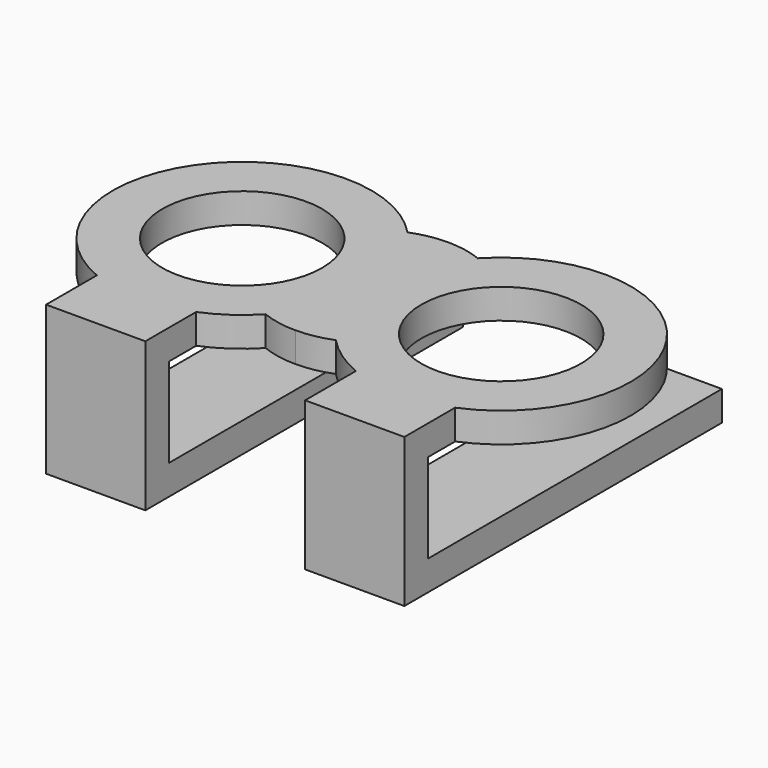
from build123d import *

# Parameters (mm, degrees)
F0_R     = 8.05
F1_DEPTH = 3
F2_W     = 10
F2_H     = 3
F3_DEPTH = 3
F4_DEPTH = 9
F5_W     = 10
F5_H     = 3
F6_DEPTH = 40


with BuildPart() as f1:
    # F0 (on Top) → F1 (new body)
    with BuildSketch(Plane.XY):
        with BuildLine():
            ThreePointArc((-3.5381985419, -8.9346590881), (-0.9167500432, -4.8048668541), (0, 0))
            ThreePointArc((0, 0), (-0.9167500432, 4.8048668541), (-3.5381985419, 8.9346590881))
            ThreePointArc((-3.5381985419, 8.9346590881), (-26.1, 0), (-3.5381985419, -8.9346590881))
        make_face()
        with Locations((-13.05, 0)):
            Circle(F0_R, mode=Mode.SUBTRACT)
        with BuildLine():
            Line((0, -9.6097337082), (0, 0))
            ThreePointArc((0, 0), (-0.9167500432, -4.8048668541), (-3.5381985419, -8.9346590881))
            ThreePointArc((-3.5381985419, -8.9346590881), (-1.8010118451, -9.4394564609), (0, -9.6097337082))
        make_face()
        with BuildLine():
            ThreePointArc((-3.5381985419, 8.9346590881), (-0.9167500432, 4.8048668541), (0, 0))
            Line((0, 0), (0, 9.6097337082))
            ThreePointArc((0, 9.6097337082), (-1.8010118451, 9.4394564609), (-3.5381985419, 8.9346590881))
        make_face()
    extrude(amount=F1_DEPTH)

    # F2 (on face) → F3 (join, through all)
    with BuildSketch(Plane(origin=(0, 0, 0), x_dir=(1, 0, 0), z_dir=(0, 0, -1))):
        with BuildLine():
            ThreePointArc((-18.05, 12.0541486634), (-13.05, 13.05), (-8.05, 12.0541486634))
            Line((-8.05, 12.0541486634), (-8.05, 15.45))
            Line((-8.05, 15.45), (-18.05, 15.45))
            Line((-18.05, 15.45), (-18.05, 12.0541486634))
        make_face()
        with Locations((-13.05, 16.95)):
            Rectangle(F2_W, F2_H)
    extrude(amount=-F3_DEPTH)

    # F2 (on face) → F4 (join)
    with BuildSketch(Plane(origin=(0, 0, 0), x_dir=(1, 0, 0), z_dir=(0, 0, -1))):
        with Locations((-13.05, 16.95)):
            Rectangle(F2_W, F2_H)
    extrude(amount=F4_DEPTH)

    # F5 (on face) → F6 (join)
    with BuildSketch(Plane.XZ.offset(18.45)):
        with Locations((-13.05, -10.5)):
            Rectangle(F5_W, F5_H)
    extrude(amount=-F6_DEPTH)

    # F7: F1 across plane


with BuildPart() as f1_1:
    add(f1.part)
    add(f1.part.mirror(Plane.YZ))


solid = f1_1.part
